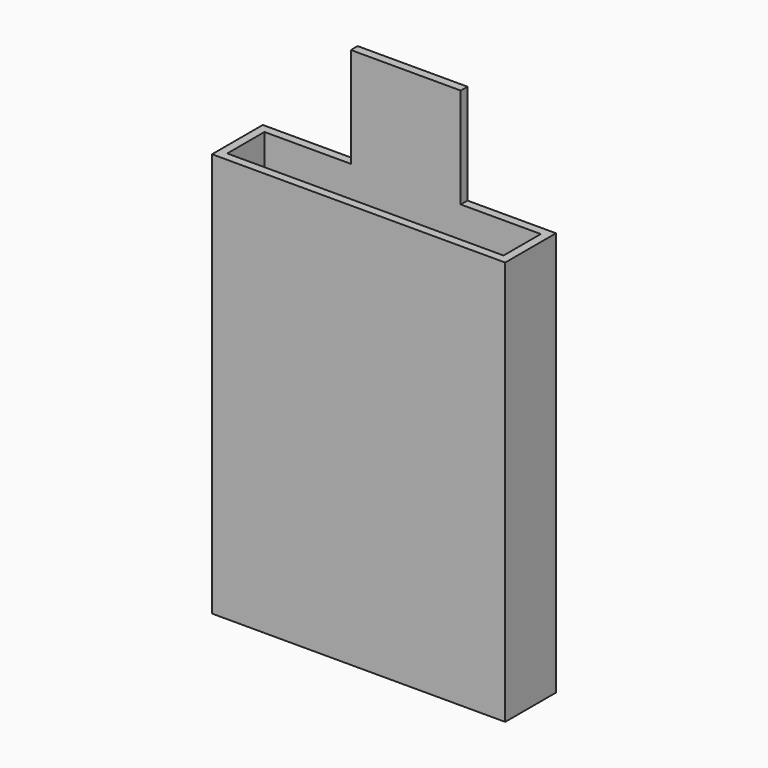
from build123d import *

# Parameters (mm, degrees)
F0_W     = 88.027496
F0_H     = 121.417232
F1_DEPTH = 19.05
F2_T     = -2.54
F3_W     = 32.993815
F3_H     = 30.100085
F4_DEPTH = 2.54


with BuildPart() as f1:
    # F0 (on Front) → F1 (new body)
    with BuildSketch(Plane.XZ):
        with Locations((-2.276575, 0.142578)):
            Rectangle(F0_W, F0_H)
    extrude(amount=F1_DEPTH)

    # F2
    f2_openings = [f1.faces().sort_by_distance(p)[0] for p in [
        (-2.276575, -9.525, 60.851194),
    ]]
    offset(amount=F2_T, openings=f2_openings)

    # F3 (on face) → F4 (join)
    with BuildSketch(Plane.XZ):
        with Locations((-1.319751, 75.901236)):
            Rectangle(F3_W, F3_H)
    extrude(amount=F4_DEPTH)


solid = f1.part
